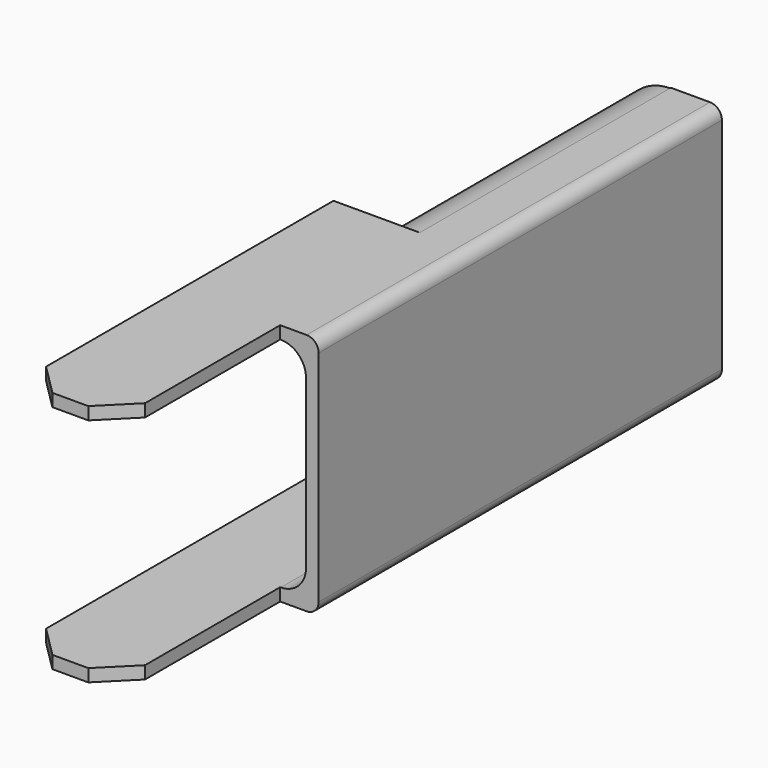
from build123d import *

# Parameters (mm, degrees)
PAD001_DEPTH    = 0.2
CHAMFER001_SIZE = 0.5
SKETCH002_W     = 8
SKETCH002_H     = 3.86
PAD002_DEPTH    = 0.2
PAD004_DEPTH    = 4.98
PAD003_DEPTH    = 4.98
PAD_DEPTH       = 0.2
CHAMFER_SIZE    = 0.5
FILLET_R        = 0.4
FILLET001_R     = 0.19


with BuildPart() as body001:
    # Sketch001 → Pad001 (new body)
    with BuildSketch(Plane.XY.offset(3.66)):
        Polygon((0, 0), (1.57, 0), (1.57, 3.18), (2.18, 3.18), (2.18, 11.18), (1.37, 11.18), (1.37, 6.2), (0, 6.2), align=None)
    extrude(amount=PAD001_DEPTH)

    # Chamfer001
    chamfer001_edges = [body001.edges().sort_by_distance(p)[0] for p in [
        (1.57, 0, 3.76),
        (0, 0, 3.76),
    ]]
    chamfer(chamfer001_edges, length=CHAMFER001_SIZE)

    # Sketch002 (on Face11 of Chamfer001) → Pad002 (join)
    with BuildSketch(Plane.YZ.offset(2.18)):
        with Locations((7.18, 1.93)):
            Rectangle(SKETCH002_W, SKETCH002_H)
    extrude(amount=-PAD002_DEPTH)


with BuildPart() as body003:
    # Sketch004 → Pad004 (new body)
    with BuildSketch(Plane.XZ):
        with BuildLine():
            Line((1.37, 0.2), (1.37, 0))
            ThreePointArc((1.37, 1.6), (0.57, 0.8), (1.37, 0))
            Line((1.37, 1.6), (1.37, 1.4))
            ThreePointArc((1.37, 1.4), (0.77, 0.8), (1.37, 0.2))
        make_face()
    extrude(amount=PAD004_DEPTH)


with BuildPart() as body003_1:
    # Body003 placement: moved
    add(body003.part.moved(Location((0, 11.18, 2.25))))


with BuildPart() as body002:
    # Sketch003 → Pad003 (new body)
    with BuildSketch(Plane.XZ):
        with BuildLine():
            Line((1.37, 0.2), (1.37, 0))
            ThreePointArc((1.37, 1.6), (0.57, 0.8), (1.37, 0))
            Line((1.37, 1.6), (1.37, 1.4))
            ThreePointArc((1.37, 1.4), (0.77, 0.8), (1.37, 0.2))
        make_face()
    extrude(amount=PAD003_DEPTH)


with BuildPart() as body002_1:
    # Body002 placement: moved
    add(body002.part.moved(Location((0, 11.18, 0))))


with BuildPart() as body:
    # Sketch → Pad (new body)
    with BuildSketch(Plane.XY):
        Polygon((0, 0), (1.57, 0), (1.57, 3.18), (2.18, 3.18), (2.18, 11.18), (1.37, 11.18), (1.37, 6.2), (0, 6.2), align=None)
    extrude(amount=PAD_DEPTH)

    # Chamfer
    chamfer_edges = [body.edges().sort_by_distance(p)[0] for p in [
        (1.57, 0, 0.1),
        (0, 0, 0.1),
    ]]
    chamfer(chamfer_edges, length=CHAMFER_SIZE)

    # Boolean: union Body001, Body003, Body002
    add(body001.part)
    add(body003_1.part)
    add(body002_1.part)

    # Fillet
    fillet_edges = [body.edges().sort_by_distance(p)[0] for p in [
        (1.98, 7.18, 0.2),
        (1.98, 7.18, 3.66),
    ]]
    fillet(fillet_edges, radius=FILLET_R)

    # Fillet001
    fillet001_edges = [body.edges().sort_by_distance(p)[0] for p in [
        (2.18, 7.18, 0),
        (2.18, 7.18, 3.86),
    ]]
    fillet(fillet001_edges, radius=FILLET001_R)


solid = body.part
